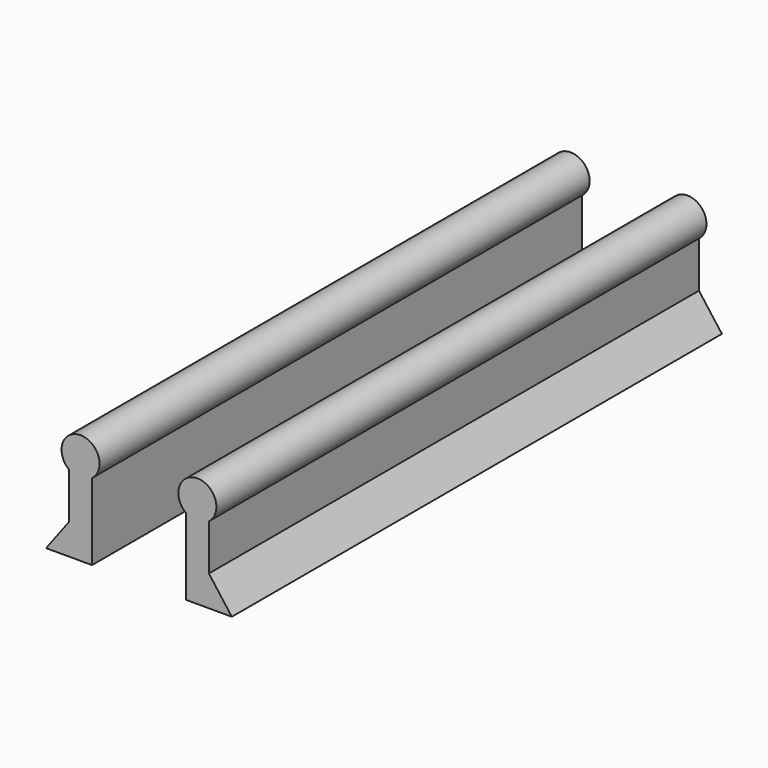
from build123d import *

# Parameters (mm, degrees)
F1_DEPTH = 80


with BuildPart() as f1:
    # F0 (on Front) → F1 (new body)
    with BuildSketch(Plane.XZ):
        Polygon((14.039754, -16.401339), (14.039754, -12.401339), (11.039754, -12.401339), (8.039754, -16.401339), align=None)
        with BuildLine():
            ThreePointArc((29.299947, -6.401339), (27.799947, -1.946396), (26.299947, -6.401339))
            Line((26.299947, -6.401339), (26.299947, -12.401339))
            Line((26.299947, -12.401339), (29.299947, -12.401339))
            Line((29.299947, -12.401339), (29.299947, -6.401339))
        make_face()
        Polygon((29.299947, -12.401339), (26.299947, -12.401339), (26.299947, -16.401339), (32.299947, -16.401339), align=None)
        with BuildLine():
            Line((14.039754, -12.401339), (14.039754, -6.401339))
            ThreePointArc((14.039754, -6.401339), (12.539754, -1.946396), (11.039754, -6.401339))
            Line((11.039754, -6.401339), (11.039754, -12.401339))
            Line((11.039754, -12.401339), (14.039754, -12.401339))
        make_face()
    extrude(amount=F1_DEPTH)


solid = f1.part
